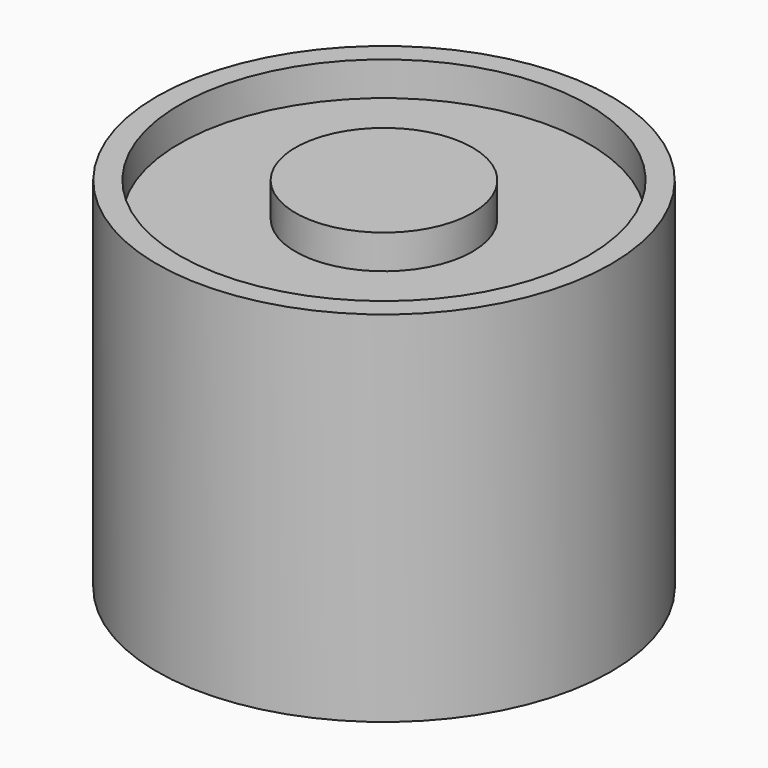
from build123d import *

# Parameters (mm, degrees)
F0_R     = 12.7
F1_DEPTH = 20.066
F2_R     = 11.43
F2_R_2   = 4.953
F3_DEPTH = 1.905
F5_D     = 2.2606
F5_DEPTH = 4.445
F5_TIP   = 0.6791527577


with BuildPart() as f1:
    # F0 (on Top) → F1 (new body)
    with BuildSketch(Plane.XY):
        Circle(F0_R)
    extrude(amount=F1_DEPTH)

    # F2 (on face) → F3 (cut)
    with BuildSketch(Plane.XY.offset(20.066)):
        Circle(F2_R)
        Circle(F2_R_2, mode=Mode.SUBTRACT)
    extrude(amount=-F3_DEPTH, mode=Mode.SUBTRACT)

    # F5
    with Locations(Plane(origin=(0, 0, 0), x_dir=(1, 0, 0), z_dir=(0, 0, -1))):
        with Locations((0, 0)):
            Hole(F5_D / 2, depth=F5_DEPTH)
            with Locations((0, 0, -(F5_DEPTH + F5_TIP / 2))):  # 118° drill point
                Cone(0, F5_D / 2, F5_TIP, mode=Mode.SUBTRACT)


solid = f1.part
